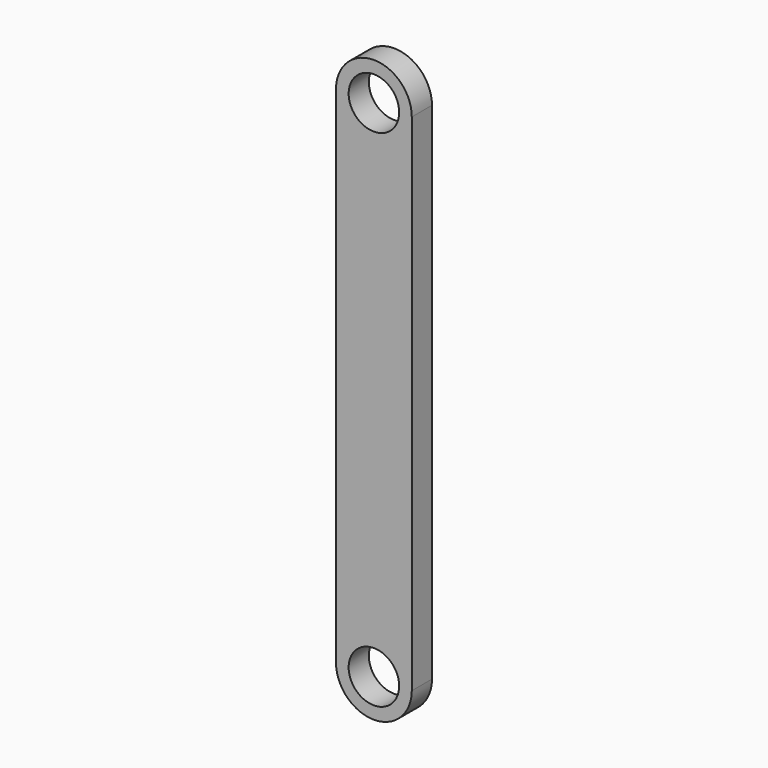
from build123d import *

# Parameters (mm, degrees)
F0_R     = 25
F1_DEPTH = 25


with BuildPart() as f1:
    # F0 (on Front) → F1 (new body)
    with BuildSketch(Plane.XZ):
        with BuildLine():
            ThreePointArc((-37.5, 0), (0, -37.5), (37.5, 0))
            ThreePointArc((37.5, 0), (0, 37.5), (-37.5, 0))
        make_face()
        Circle(F0_R, mode=Mode.SUBTRACT)
        with BuildLine():
            ThreePointArc((-37.5, 500), (0, 462.5), (37.5, 500))
            ThreePointArc((37.5, 500), (0, 537.5), (-37.5, 500))
        make_face()
        with Locations((0, 500)):
            Circle(F0_R, mode=Mode.SUBTRACT)
        with BuildLine():
            ThreePointArc((-37.5, 0), (0, 37.5), (37.5, 0))
            Line((37.5, 0), (37.5, 500))
            ThreePointArc((37.5, 500), (0, 462.5), (-37.5, 500))
            Line((-37.5, 500), (-37.5, 0))
        make_face()
    extrude(amount=F1_DEPTH)


solid = f1.part
